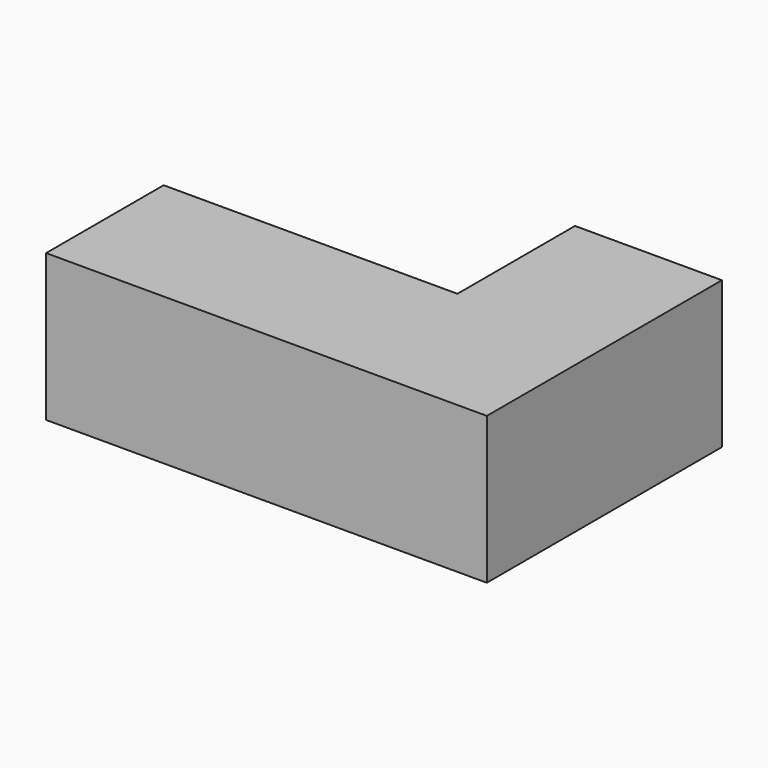
from build123d import *

# Parameters (mm, degrees)
F0_W     = 20
F0_H     = 20
F1_DEPTH = 40
F2_W     = 20
F2_H     = 20
F3_DEPTH = 40


with BuildPart() as f1:
    # F0 (on Front) → F1 (new body)
    with BuildSketch(Plane.XZ):
        Rectangle(F0_W, F0_H)
    extrude(amount=F1_DEPTH)

    # F2 (on face) → F3 (join)
    with BuildSketch(Plane(origin=(-10, 0, 0), x_dir=(0, -1, 0), z_dir=(-1, 0, 0))):
        with Locations((30, 0)):
            Rectangle(F2_W, F2_H)
    extrude(amount=F3_DEPTH)


solid = f1.part
